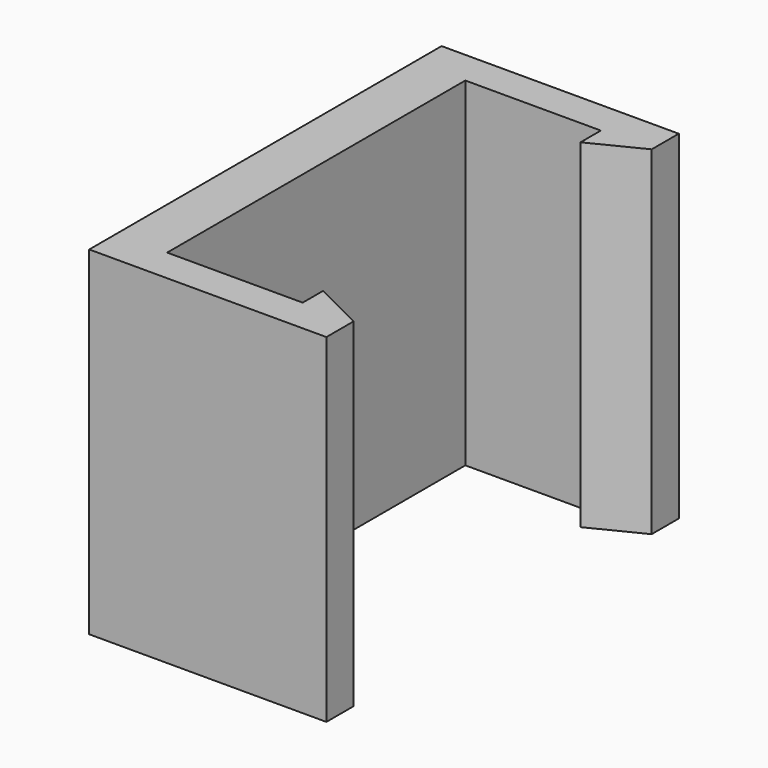
from build123d import *

# Parameters (mm, degrees)
PAD_DEPTH = 20


with BuildPart() as part:
    # Sketch → Pad (new body)
    with BuildSketch(Plane.XY):
        Polygon((3.421999, 11), (3.421999, 9.5), (6.421999, 11), (6.421999, 13), (-7.578001, 13), (-7.578001, 0), (-4.578001, 0), (-4.578001, 11), align=None)
    pad = extrude(amount=PAD_DEPTH)

    # Mirrored: Pad across Sketch H_Axis
    add(pad.mirror(Plane.ZX))


solid = part.part
